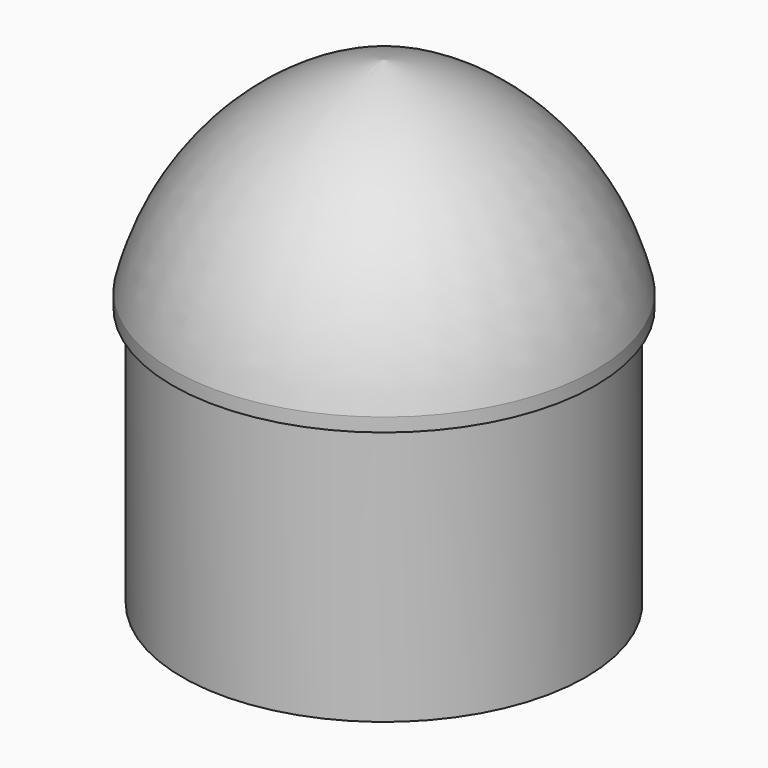
from build123d import *

# Parameters (mm, degrees)
F0_R     = 2.9591
F0_R_2   = 2.8194
F1_DEPTH = 3.81
F2_R     = 3.1
F2_R_2   = 2.9591
F2_R_3   = 2.8194
F3_DEPTH = 0.2


with BuildPart() as f1:
    # F0 (on Top) → F1 (new body)
    with BuildSketch(Plane.XY):
        Circle(F0_R)
        Circle(F0_R_2, mode=Mode.SUBTRACT)
    extrude(amount=F1_DEPTH)

    # F2 (on face) → F3 (join)
    with BuildSketch(Plane.XY.offset(3.81)):
        Circle(F2_R)
        Circle(F2_R_2, mode=Mode.SUBTRACT)
        Circle(F2_R_2)
        Circle(F2_R_3, mode=Mode.SUBTRACT)
    extrude(amount=F3_DEPTH)

    # F4 (on Right) → F5 (revolve)
    with BuildSketch(Plane.YZ):
        with BuildLine():
            Line((0, 6.81), (0, 7.01))
            ThreePointArc((0, 7.01), (-1.989086, 5.963722), (-3.1, 4.01))
            Line((-3.1, 4.01), (-2.9, 4.01))
            ThreePointArc((-2.9, 4.01), (-1.891197, 5.866954), (0, 6.81))
        make_face()
    revolve(axis=Axis((0, 0, 5.860237), (0, 0, 1)))


solid = f1.part
